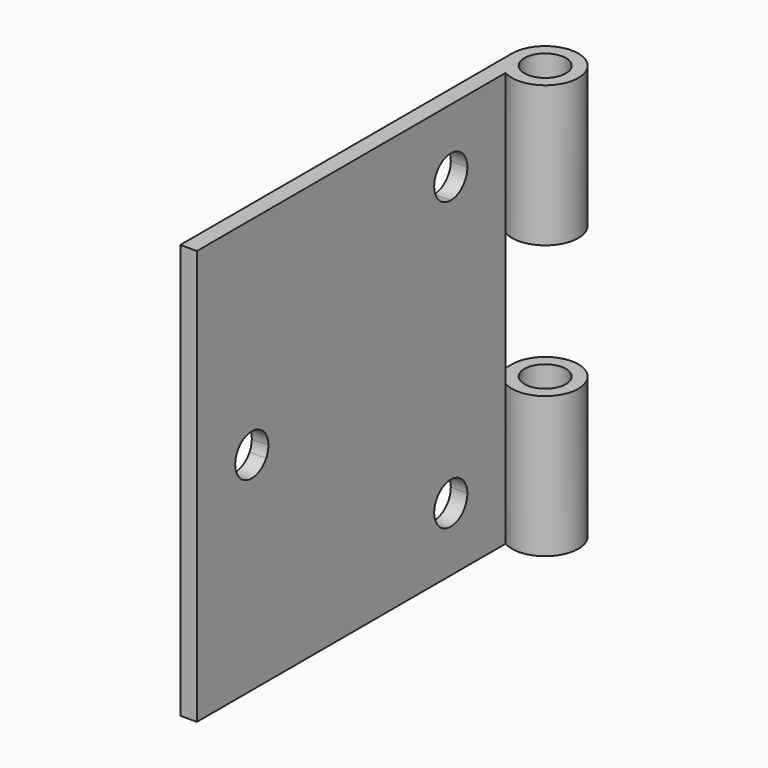
from build123d import *

# Parameters (mm, degrees)
F0_W      = 0.2
F0_H      = 5
F1_DEPTH  = 5
F2_R      = 0.4
F3_DEPTH  = 5
F4_R      = 0.25
F5_DEPTH  = 5.001
F6_W      = 0.733872
F6_H      = 0.8
F7_DEPTH  = 5.401
F8_W      = 1.051865
F8_H      = 1.6
F9_DEPTH  = 0.201
F11_DEPTH = 0.201


with BuildPart() as f1:
    # F0 (on Front) → F1 (new body)
    with BuildSketch(Plane.XZ):
        with Locations((0.1, -2.5)):
            Rectangle(F0_W, F0_H)
    extrude(amount=-F1_DEPTH)

    # F2 (on face) → F3 (join)
    with BuildSketch(Plane.XY):
        with Locations((0.4, 5)):
            Circle(F2_R)
    extrude(amount=-F3_DEPTH)

    # F4 (on face) → F5 (cut, through all)
    with BuildSketch(Plane.XY):
        with Locations((0.4, 5)):
            Circle(F4_R)
    extrude(amount=-F5_DEPTH, mode=Mode.SUBTRACT)

    # F6 (on face) → F7 (cut, through all)
    with BuildSketch(Plane.XZ):
        with Locations((0.566936, -2.1)):
            Rectangle(F6_W, F6_H)
        with Locations((0.566936, -2.9)):
            Rectangle(F6_W, F6_H)
    extrude(amount=-F7_DEPTH, mode=Mode.SUBTRACT)

    # F8 (on face) → F9 (cut, through all)
    with BuildSketch(Plane.YZ.offset(0.2)):
        with Locations((5.179522, -2.5)):
            Rectangle(F8_W, F8_H)
    extrude(amount=-F9_DEPTH, mode=Mode.SUBTRACT)

    # F10 (on face) → F11 (cut, through all)
    with BuildSketch(Plane.YZ.offset(0.2)):
        with BuildLine():
            Line((3.826795, -1.017949), (3.826795, -0.767949))
            Line((3.826795, -0.767949), (3.610289, -0.892949))
            ThreePointArc((3.610289, -0.892949), (3.701795, -0.984456), (3.826795, -1.017949))
        make_face()
        with BuildLine():
            Line((3.610289, -0.892949), (3.826795, -0.767949))
            Line((3.826795, -0.767949), (3.826795, -1.017949))
            ThreePointArc((3.826795, -1.017949), (4.003572, -0.944726), (4.076795, -0.767949))
            ThreePointArc((4.076795, -0.767949), (3.76209, -0.526468), (3.610289, -0.892949))
        make_face()
        with BuildLine():
            Line((3.826795, -4.232051), (3.826795, -3.982051))
            ThreePointArc((3.826795, -3.982051), (3.701795, -4.015544), (3.610289, -4.107051))
            Line((3.610289, -4.107051), (3.826795, -4.232051))
        make_face()
        with BuildLine():
            ThreePointArc((4.076795, -4.232051), (4.003572, -4.055274), (3.826795, -3.982051))
            Line((3.826795, -3.982051), (3.826795, -4.232051))
            Line((3.826795, -4.232051), (3.610289, -4.107051))
            ThreePointArc((3.610289, -4.107051), (3.76209, -4.473532), (4.076795, -4.232051))
        make_face()
        with BuildLine():
            Line((0.826795, -2.5), (1.043301, -2.375))
            ThreePointArc((1.043301, -2.375), (0.576795, -2.5), (1.043301, -2.625))
            Line((1.043301, -2.625), (0.826795, -2.5))
        make_face()
        with BuildLine():
            ThreePointArc((1.076795, -2.5), (1.068276, -2.435295), (1.043301, -2.375))
            Line((1.043301, -2.375), (0.826795, -2.5))
            Line((0.826795, -2.5), (1.043301, -2.625))
            ThreePointArc((1.043301, -2.625), (1.068276, -2.564705), (1.076795, -2.5))
        make_face()
    extrude(amount=-F11_DEPTH, mode=Mode.SUBTRACT)


solid = f1.part
